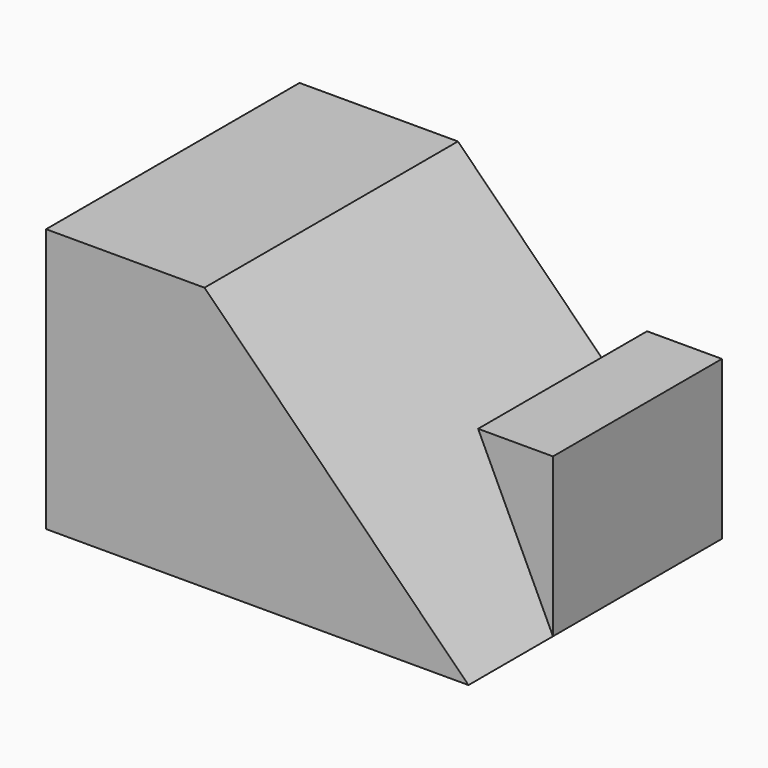
from build123d import *

# Parameters (mm, degrees)
F1_DEPTH = 38.1
F3_DEPTH = 12.7
F5_DEPTH = 25.4
F6_DEPTH = 12.7


with BuildPart() as f1:
    # F0 (on Front) → F1 (new body)
    with BuildSketch(Plane.XZ):
        Polygon((-25.4, 0), (0, 0), (25.4, 0), (25.4, 31.75), (-25.4, 31.75), align=None)
    extrude(amount=F1_DEPTH)

    # F2 (on face) → F3 (cut)
    with BuildSketch(Plane.XZ.offset(38.1)):
        Polygon((25.4, 31.75), (-6.35, 31.75), (25.4, 0), align=None)
    extrude(amount=-F3_DEPTH, mode=Mode.SUBTRACT)

    # F4 (on face) → F5 (cut)
    with BuildSketch(Plane.XZ.offset(25.4)):
        Polygon((25.4, 0), (10.3934332728, 31.75), (-6.35, 31.75), align=None)
    extrude(amount=-F5_DEPTH, mode=Mode.SUBTRACT)

    # F6 (cut): a face of the model
    f6_faces = [f1.faces().sort_by_distance(p)[0] for p in [
        (17.8967166364, -12.7, 31.75),
    ]]
    extrude(f6_faces, amount=-F6_DEPTH, mode=Mode.SUBTRACT)


solid = f1.part
